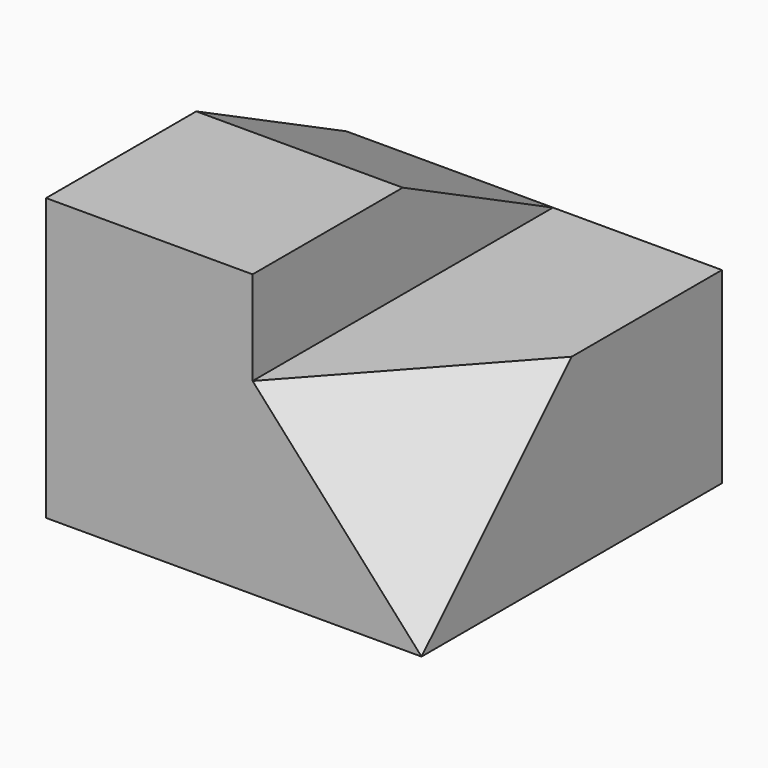
from build123d import *

# Parameters (mm, degrees)
F2_DEPTH  = 127
F3_DEPTH  = 12.7
F0_W      = 139.7
F0_H      = 127
F4_DEPTH  = 31.75
F5_DEPTH  = 95.25
F6_DEPTH  = 31.75
F7_DEPTH  = 95.25
F8_DEPTH  = 31.75
F9_DEPTH  = 95.25
F13_DEPTH = 185.674


with BuildPart() as f2:
    # F1 (on Right) → F2 (new body)
    with BuildSketch(Plane.YZ):
        Polygon((0, 31.75), (127, 31.75), (0, 95.25), (-127, 95.25), (-127, 31.75), align=None)
    extrude(amount=-F2_DEPTH)

    # F1 (on Right) → F3 (join)
    with BuildSketch(Plane.YZ):
        Polygon((0, 31.75), (127, 31.75), (0, 95.25), (-127, 95.25), (-127, 31.75), align=None)
    extrude(amount=F3_DEPTH)

    # F0 (on Top) → F4 (join)
    with BuildSketch(Plane.XY):
        with Locations((-57.15, -63.5)):
            Rectangle(F0_W, F0_H)
        with Locations((-57.15, 63.5)):
            Rectangle(F0_W, F0_H)
    extrude(amount=F4_DEPTH)

    # F0 (on Top) → F5 (join)
    with BuildSketch(Plane.XY):
        with Locations((-57.15, -63.5)):
            Rectangle(F0_W, F0_H)
        with Locations((-57.15, 63.5)):
            Rectangle(F0_W, F0_H)
    extrude(amount=-F5_DEPTH)

    # F0 (on Top) → F6 (join)
    with BuildSketch(Plane.XY):
        Polygon((12.7, 0), (12.7, -127), (127, 0), (127, 127), (12.7, 127), align=None)
    extrude(amount=F6_DEPTH)

    # F0 (on Top) → F7 (join)
    with BuildSketch(Plane.XY):
        Polygon((12.7, 0), (12.7, -127), (127, 0), (127, 127), (12.7, 127), align=None)
    extrude(amount=-F7_DEPTH)

    # F0 (on Top) → F8 (join)
    with BuildSketch(Plane.XY):
        with Locations((-57.15, -63.5)):
            Rectangle(F0_W, F0_H)
        Polygon((127, 0), (12.7, -127), (127, -127), align=None)
        Polygon((12.7, 0), (12.7, -127), (127, 0), (127, 127), (12.7, 127), align=None)
        with Locations((-57.15, 63.5)):
            Rectangle(F0_W, F0_H)
    extrude(amount=F8_DEPTH)

    # F0 (on Top) → F9 (join)
    with BuildSketch(Plane.XY):
        Polygon((127, 0), (12.7, -127), (127, -127), align=None)
    extrude(amount=-F9_DEPTH)

    # F12 (on 3pt) → F13 (cut)
    with BuildSketch(Plane(origin=(59.3797709924, -53.4417938931, 53.4417938931), x_dir=(0.4132877914, 0.8311676694, 0.3719590123), z_dir=(0.6178020632, -0.5560218569, 0.5560218569))):
        Polygon((-88.4998404232, -155.7572883461), (64.2972481493, -61.3589317727), (-88.4998404232, 15.1037370517), align=None)
    extrude(amount=F13_DEPTH, mode=Mode.SUBTRACT)


solid = f2.part
